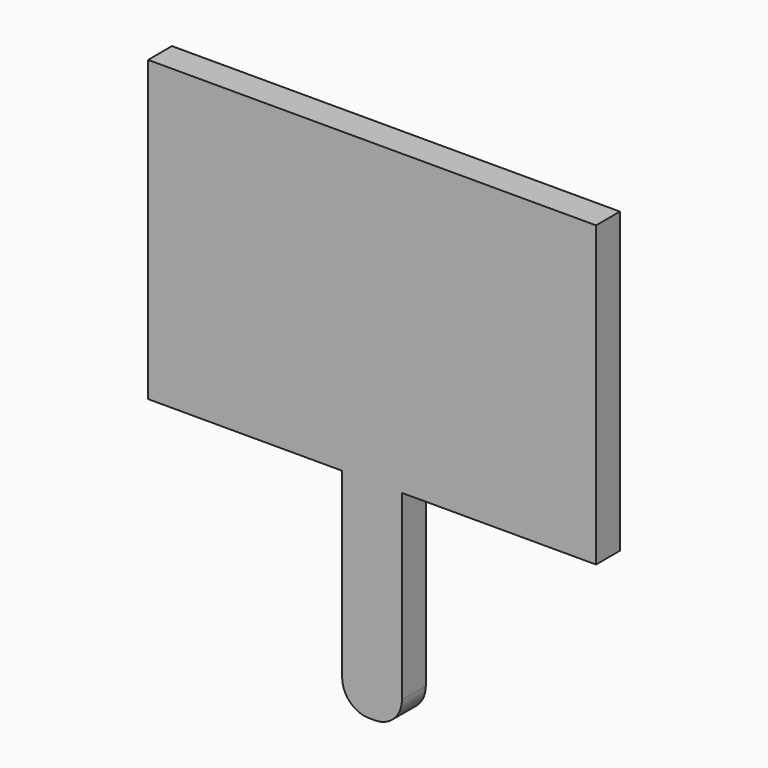
from build123d import *

# Parameters (mm, degrees)
SKETCH025_W  = 7.5
SKETCH025_H  = 0.5
PAD009_DEPTH = 5
SKETCH026_W  = 1
SKETCH026_H  = 0.5
PAD010_DEPTH = 3.5
FILLET005_R  = 0.45


with BuildPart() as part:
    # Sketch025 → Pad009 (new body)
    with BuildSketch(Plane.XY):
        with Locations((0, -3.38)):
            Rectangle(SKETCH025_W, SKETCH025_H)
    extrude(amount=PAD009_DEPTH)

    # Sketch026 (on Face5 of Pad009) → Pad010 (join)
    with BuildSketch(Plane(origin=(0, 0, 0), x_dir=(1, 0, 0), z_dir=(0, 0, -1))):
        with Locations((0, 3.38)):
            Rectangle(SKETCH026_W, SKETCH026_H)
    extrude(amount=PAD010_DEPTH)

    # Fillet005
    fillet005_edges = [part.edges().sort_by_distance(p)[0] for p in [
        (0.5, -3.38, -3.5),
        (-0.5, -3.38, -3.5),
    ]]
    fillet(fillet005_edges, radius=FILLET005_R)


solid = part.part
